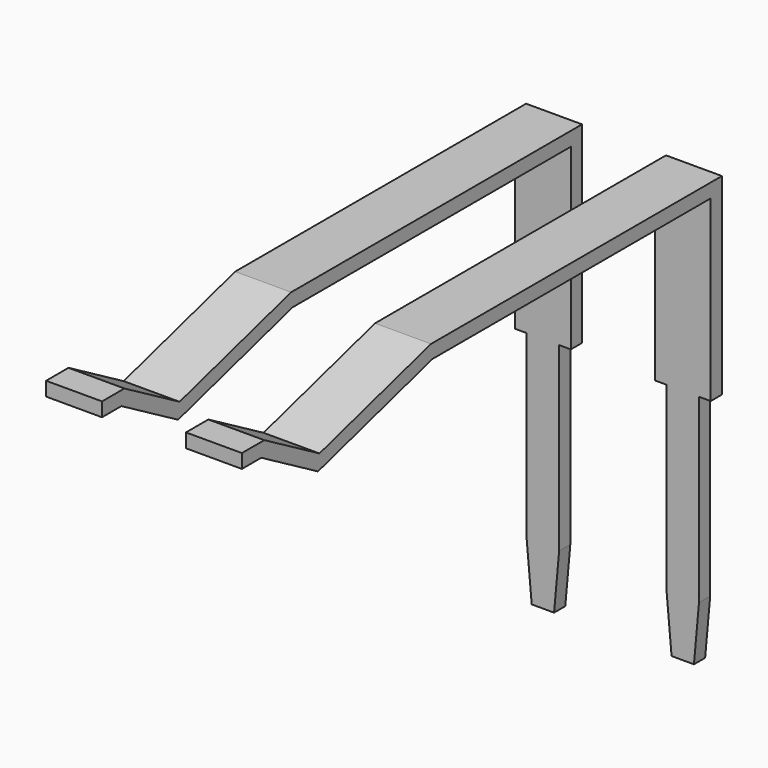
from build123d import *

# Parameters (mm, degrees)
PAD009_DEPTH    = 0.5
POCKET006_DEPTH = 36.58412
ARRAY_X_COUNT   = 2
ARRAY_X_PITCH   = 2.5


with BuildPart() as array:
    # Sketch016 → Pad009 (new body, symmetric)
    with BuildSketch(Plane.YZ):
        Polygon((-0.6, 5.18), (-0.6, 4.93), (-0.166874, 4.93), (1.1, 4.2), (3.659949, 4.93), (9.875, 4.93), (9.875, -2.5), (10.125, -2.5), (10.125, 5.18), (3.625, 5.18), (1.133165, 4.469424), (-0.1, 5.18), align=None)
    extrude(amount=PAD009_DEPTH, both=True)

    # Sketch017 → Pocket006 (cut, through all)
    with BuildSketch(Plane.XZ):
        Polygon((0.2, -2.5), (0.29, -1.5), (0.29, 1.74), (0.5, 1.74), (0.5, -2.5), align=None)
    pocket006 = extrude(amount=-POCKET006_DEPTH, mode=Mode.SUBTRACT)

    # Mirrored001: Pocket006 across Sketch017 V_Axis
    add(pocket006.mirror(Plane(origin=(0, 0, 0), x_dir=(0, -1, 0), z_dir=(1, 0, 0))), mode=Mode.SUBTRACT)

    # Array X: Array ×2


with BuildPart() as array_1:
    add(array.part)
    with Locations(*[(i * ARRAY_X_PITCH, 0, 0) for i in range(1, ARRAY_X_COUNT)]):
        add(array.part)


with BuildPart() as array_2:
    # Array placement: moved
    add(array_1.part.moved(Location((1, 0, 0))))


with BuildPart() as part_mirroring:
    # Part__Mirroring: instance of Array
    add(array_2.part.mirror(Plane(origin=(0, 0, 0), x_dir=(0, -1, 0), z_dir=(1, 0, 0))))


solid = part_mirroring.part
